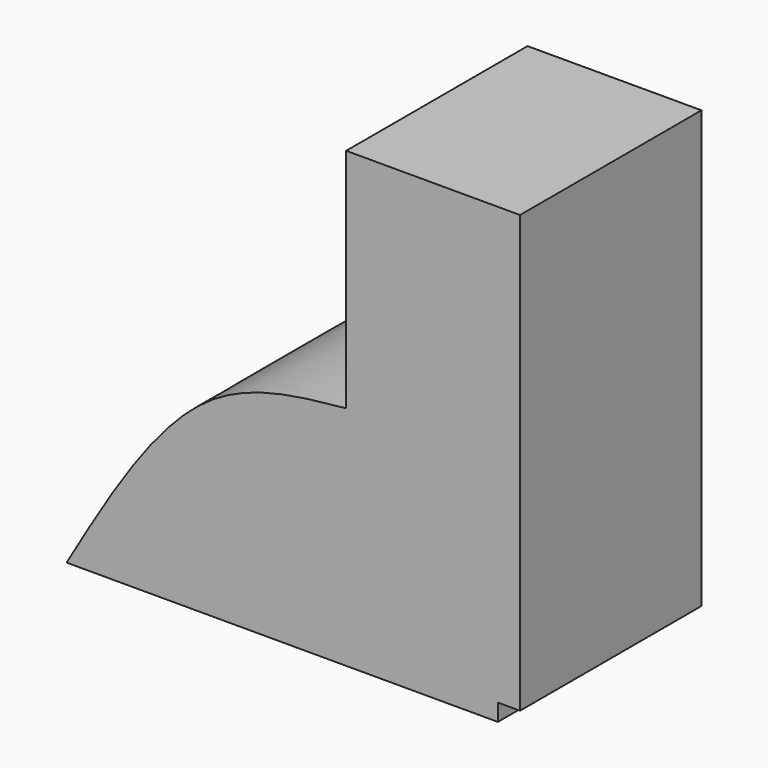
from build123d import *

# Parameters (mm, degrees)
F1_DEPTH = 25.4


with BuildPart() as f1:
    # F0 (on Front) → F1 (new body)
    with BuildSketch(Plane.XZ):
        with BuildLine():
            Line((-50.8, 0), (-2.4824102875, 0))
            Line((-2.4824102875, 0), (-2.4824102875, 1.9095465541))
            Line((-2.4824102875, 1.9095465541), (0, 1.9095465541))
            Line((0, 1.9095465541), (0, 50.8))
            Line((0, 50.8), (-19.4773748517, 50.8))
            Line((-19.4773748517, 50.8), (-19.4773748517, 25.4))
            add(Edge.make_bspline(
                [(-19.4773748517, 25.4), (-24.7792435241, 24.8815610992), (-36.9487798435, 23.6915729228), (-45.8031750089, 8.5467303473), (-50.8, 0)],
                knots=[0, 0, 0, 0, 0.4356672706, 1, 1, 1, 1], degree=3))
        make_face()
    extrude(amount=F1_DEPTH)


solid = f1.part
